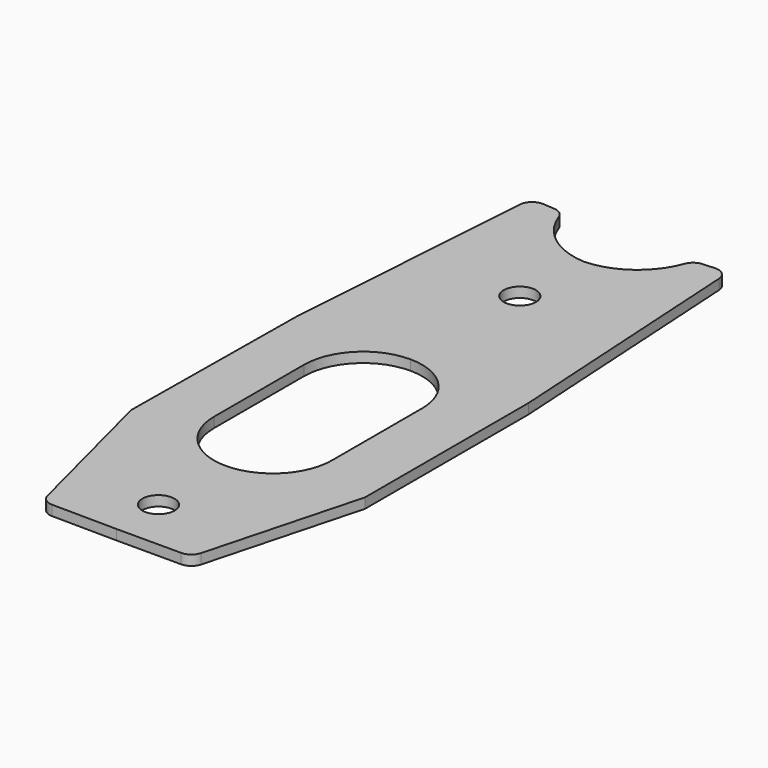
from build123d import *

# Parameters (mm, degrees)
F1_DEPTH = 5
F2_R     = 7.9883
F3_DEPTH = 25.4
F6_DEPTH = 25.4
F7_R     = 6.35


with BuildPart() as f1:
    # F0 (on Top) → F1 (new body)
    with BuildSketch(Plane.XY):
        with BuildLine():
            Line((1.470284, 287.84881), (0, 0))
            Line((0, 0), (36.98494, 0))
            Line((36.98494, 0), (58.59907, 80.73898))
            Line((58.59907, 80.73898), (58.59907, 182.05958))
            Line((58.59907, 182.05958), (50.6857, 315.67628))
            Line((50.6857, 315.67628), (34.044278, 314.690702))
            ThreePointArc((34.044278, 314.690702), (22.258545, 295.807244), (1.470284, 287.84881))
        make_face()
        with BuildLine():
            Line((-36.98301, 0.377816), (0, 0))
            Line((0, 0), (1.470284, 287.84881))
            ThreePointArc((1.470284, 287.84881), (-19.235594, 296.019189), (-30.82781, 315.022057))
            Line((-30.82781, 315.022057), (-47.458296, 316.177583))
            Line((-47.458296, 316.177583), (-56.736201, 182.648693))
            Line((-56.736201, 182.648693), (-57.771231, 81.33338))
            Line((-57.771231, 81.33338), (-36.98301, 0.377816))
        make_face()
    extrude(amount=F1_DEPTH)

    # F2 (on face) → F3 (cut)
    with BuildSketch(Plane.XY.offset(5)):
        with Locations((0, 249.86996)):
            Circle(F2_R)
        with Locations((0, 26.06802)):
            Circle(F2_R)
    extrude(amount=-F3_DEPTH, mode=Mode.SUBTRACT)

    # F5 (on face) → F6 (cut)
    with BuildSketch(Plane.XY.offset(5)):
        with BuildLine():
            ThreePointArc((-29.24937, 96.96323), (-20.682428, 76.280802), (0, 67.71386))
            ThreePointArc((0, 67.71386), (20.682428, 76.280802), (29.24937, 96.96323))
            Line((29.24937, 96.96323), (29.24937, 152.81021))
            ThreePointArc((29.24937, 152.81021), (20.682428, 173.492638), (0, 182.05958))
            ThreePointArc((0, 182.05958), (-20.682428, 173.492638), (-29.24937, 152.81021))
            Line((-29.24937, 152.81021), (-29.24937, 96.96323))
        make_face()
    extrude(amount=-F6_DEPTH, mode=Mode.SUBTRACT)

    # F7
    f7_edges = [f1.edges().sort_by_distance(p)[0] for p in [
        (-36.98301, 0.377816, 2.5),
        (36.98494, 0, 2.5),
        (50.6857, 315.67628, 2.5),
        (34.044278, 314.690702, 2.5),
        (-30.82781, 315.022057, 2.5),
        (-47.458296, 316.177583, 2.5),
    ]]
    fillet(f7_edges, radius=F7_R)


solid = f1.part
